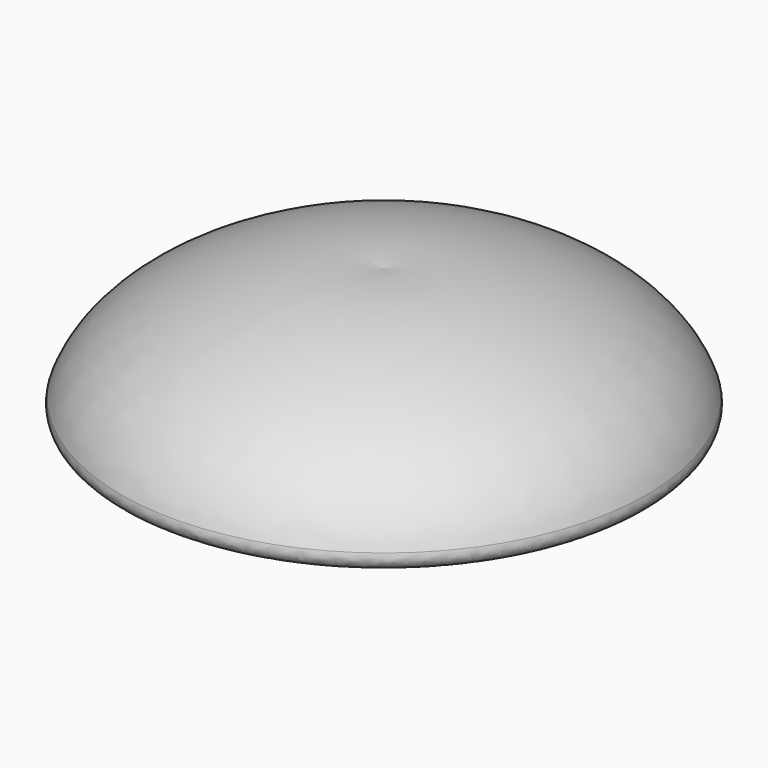
from build123d import *

# Parameters (mm, degrees)
F2_R = 2.54


with BuildPart() as f1:
    # F0 (on Front) → F1 (revolve)
    with BuildSketch(Plane.XZ):
        with BuildLine():
            Line((0, 0), (0, 25.4))
            add(Edge.make_bspline(
                [(0, 25.4), (-16.51994, 27.77613), (-48.843488, 18.681291), (-51.793166, 0)],
                knots=[0, 0, 0, 0, 57.686151, 57.686151, 57.686151, 57.686151], degree=3))
            Line((-51.793166, 0), (0, 0))
        make_face()
    revolve(axis=Axis((0, 0, 12.7), (0, 0, -1)))

    # F2
    f2_edges = [f1.edges().sort_by_distance(p)[0] for p in [
        (51.793166, 0, 0),
        (-30.471904, 0, 20.804498),
    ]]
    fillet(f2_edges, radius=F2_R)


solid = f1.part
